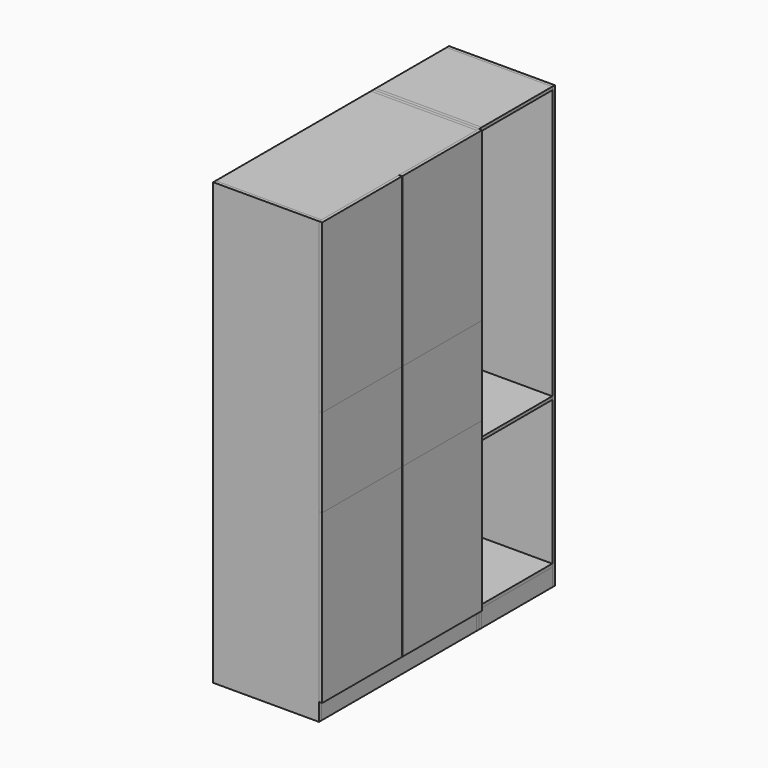
from build123d import *

# Parameters (mm, degrees)
BOX_W        = 18
BOX_H        = 1100
BOX_DEPTH    = 100
BOX001_W     = 18
BOX001_H     = 600
BOX001_DEPTH = 2500
BOX002_W     = 18
BOX002_H     = 600
BOX002_DEPTH = 2500
BOX003_W     = 600
BOX003_H     = 1100
BOX003_DEPTH = 18
BOX004_W     = 600
BOX004_H     = 1100
BOX004_DEPTH = 18
BOX007_W     = 590
BOX007_H     = 1100
BOX007_DEPTH = 18
BOX008_W     = 590
BOX008_H     = 1100
BOX008_DEPTH = 18
BOX009_W     = 600
BOX009_H     = 18
BOX009_DEPTH = 818
BOX010_W     = 600
BOX010_H     = 402
BOX010_DEPTH = 18
BOX011_W     = 600
BOX011_H     = 402
BOX011_DEPTH = 18
BOX012_W     = 18
BOX012_H     = 600
BOX012_DEPTH = 2500
BOX013_W     = 18
BOX013_H     = 600
BOX013_DEPTH = 2500
BOX014_W     = 18
BOX014_H     = 500
BOX014_DEPTH = 100
BOX015_W     = 600
BOX015_H     = 500
BOX015_DEPTH = 18
BOX016_W     = 600
BOX016_H     = 500
BOX016_DEPTH = 18
BOX017_W     = 600
BOX017_H     = 500
BOX017_DEPTH = 18
BOX018_W     = 18
BOX018_H     = 566
BOX018_DEPTH = 950
BOX019_W     = 18
BOX019_H     = 566
BOX019_DEPTH = 950
BOX020_W     = 18
BOX020_H     = 566
BOX020_DEPTH = 500
BOX021_W     = 18
BOX021_H     = 566
BOX021_DEPTH = 950
BOX022_W     = 18
BOX022_H     = 566
BOX022_DEPTH = 500
BOX023_W     = 18
BOX023_H     = 566
BOX023_DEPTH = 950


with BuildPart() as obj1:
    # Box → Box (new body)
    with BuildSketch(Plane.XY):
        with Locations((9, 550)):
            Rectangle(BOX_W, BOX_H)
    extrude(amount=BOX_DEPTH)


with BuildPart() as box001:
    # Box001 → Box001 (new body)
    with BuildSketch(Plane(origin=(18, -18, 0), x_dir=(0, 1, 0), z_dir=(0, 0, 1))):
        with Locations((9, 300)):
            Rectangle(BOX001_W, BOX001_H)
    extrude(amount=BOX001_DEPTH)


with BuildPart() as box002:
    # Box002 → Box002 (new body)
    with BuildSketch(Plane(origin=(18, 1100, 0), x_dir=(0, 1, 0), z_dir=(0, 0, 1))):
        with Locations((9, 300)):
            Rectangle(BOX002_W, BOX002_H)
    extrude(amount=BOX002_DEPTH)


with BuildPart() as obj2:
    # Box003 → Box003 (new body)
    with BuildSketch(Plane(origin=(-582, 0, 100), x_dir=(1, 0, 0), z_dir=(0, 0, 1))):
        with Locations((300, 550)):
            Rectangle(BOX003_W, BOX003_H)
    extrude(amount=BOX003_DEPTH)


with BuildPart() as obj3:
    # Box004 → Box004 (new body)
    with BuildSketch(Plane(origin=(-582, 0, 2482), x_dir=(1, 0, 0), z_dir=(0, 0, 1))):
        with Locations((300, 550)):
            Rectangle(BOX004_W, BOX004_H)
    extrude(amount=BOX004_DEPTH)


with BuildPart() as obj4:
    # Box007 → Box007 (new body)
    with BuildSketch(Plane(origin=(-582, 0, 1532), x_dir=(1, 0, 0), z_dir=(0, 0, 1))):
        with Locations((295, 550)):
            Rectangle(BOX007_W, BOX007_H)
    extrude(amount=BOX007_DEPTH)


with BuildPart() as obj5:
    # Box008 → Box008 (new body)
    with BuildSketch(Plane(origin=(-582, 0, 936), x_dir=(1, 0, 0), z_dir=(0, 0, 1))):
        with Locations((295, 550)):
            Rectangle(BOX008_W, BOX008_H)
    extrude(amount=BOX008_DEPTH)


with BuildPart() as obj6:
    # Box009 → Box009 (new body)
    with BuildSketch(Plane(origin=(-582, 680, 118), x_dir=(1, 0, 0), z_dir=(0, 0, 1))):
        with Locations((300, 9)):
            Rectangle(BOX009_W, BOX009_H)
    extrude(amount=BOX009_DEPTH)


with BuildPart() as box010:
    # Box010 → Box010 (new body)
    with BuildSketch(Plane(origin=(-582, 698, 372.666667), x_dir=(1, 0, 0), z_dir=(0, 0, 1))):
        with Locations((300, 201)):
            Rectangle(BOX010_W, BOX010_H)
    extrude(amount=BOX010_DEPTH)


with BuildPart() as box011:
    # Box011 → Box011 (new body)
    with BuildSketch(Plane(origin=(-582, 698, 645.333333), x_dir=(1, 0, 0), z_dir=(0, 0, 1))):
        with Locations((300, 201)):
            Rectangle(BOX011_W, BOX011_H)
    extrude(amount=BOX011_DEPTH)


with BuildPart() as box012:
    # Box012 → Box012 (new body)
    with BuildSketch(Plane(origin=(18, 1636, 0), x_dir=(0, 1, 0), z_dir=(0, 0, 1))):
        with Locations((9, 300)):
            Rectangle(BOX012_W, BOX012_H)
    extrude(amount=BOX012_DEPTH)


with BuildPart() as box013:
    # Box013 → Box013 (new body)
    with BuildSketch(Plane(origin=(18, 1118, 0), x_dir=(0, 1, 0), z_dir=(0, 0, 1))):
        with Locations((9, 300)):
            Rectangle(BOX013_W, BOX013_H)
    extrude(amount=BOX013_DEPTH)


with BuildPart() as obj7:
    # Box014 → Box014 (new body)
    with BuildSketch(Plane(origin=(0, 1136, 0), x_dir=(1, 0, 0), z_dir=(0, 0, 1))):
        with Locations((9, 250)):
            Rectangle(BOX014_W, BOX014_H)
    extrude(amount=BOX014_DEPTH)


with BuildPart() as obj8:
    # Box015 → Box015 (new body)
    with BuildSketch(Plane(origin=(-582, 1136, 100), x_dir=(1, 0, 0), z_dir=(0, 0, 1))):
        with Locations((300, 250)):
            Rectangle(BOX015_W, BOX015_H)
    extrude(amount=BOX015_DEPTH)


with BuildPart() as obj9:
    # Box016 → Box016 (new body)
    with BuildSketch(Plane(origin=(-582, 1136, 2482), x_dir=(1, 0, 0), z_dir=(0, 0, 1))):
        with Locations((300, 250)):
            Rectangle(BOX016_W, BOX016_H)
    extrude(amount=BOX016_DEPTH)


with BuildPart() as obj10:
    # Box017 → Box017 (new body)
    with BuildSketch(Plane(origin=(-582, 1136, 936), x_dir=(1, 0, 0), z_dir=(0, 0, 1))):
        with Locations((300, 250)):
            Rectangle(BOX017_W, BOX017_H)
    extrude(amount=BOX017_DEPTH)


with BuildPart() as obj11:
    # Box018 → Box018 (new body)
    with BuildSketch(Plane(origin=(18, -18, 100), x_dir=(1, 0, 0), z_dir=(0, 0, 1))):
        with Locations((9, 283)):
            Rectangle(BOX018_W, BOX018_H)
    extrude(amount=BOX018_DEPTH)


with BuildPart() as obj12:
    # Box019 → Box019 (new body)
    with BuildSketch(Plane(origin=(18, -18, 1550), x_dir=(1, 0, 0), z_dir=(0, 0, 1))):
        with Locations((9, 283)):
            Rectangle(BOX019_W, BOX019_H)
    extrude(amount=BOX019_DEPTH)


with BuildPart() as obj13:
    # Box020 → Box020 (new body)
    with BuildSketch(Plane(origin=(18, -18, 1050), x_dir=(1, 0, 0), z_dir=(0, 0, 1))):
        with Locations((9, 283)):
            Rectangle(BOX020_W, BOX020_H)
    extrude(amount=BOX020_DEPTH)


with BuildPart() as obj14:
    # Box021 → Box021 (new body)
    with BuildSketch(Plane(origin=(18, 550, 100), x_dir=(1, 0, 0), z_dir=(0, 0, 1))):
        with Locations((9, 283)):
            Rectangle(BOX021_W, BOX021_H)
    extrude(amount=BOX021_DEPTH)


with BuildPart() as obj15:
    # Box022 → Box022 (new body)
    with BuildSketch(Plane(origin=(18, 550, 1050), x_dir=(1, 0, 0), z_dir=(0, 0, 1))):
        with Locations((9, 283)):
            Rectangle(BOX022_W, BOX022_H)
    extrude(amount=BOX022_DEPTH)


with BuildPart() as obj16:
    # Box023 → Box023 (new body)
    with BuildSketch(Plane(origin=(18, 550, 1550), x_dir=(1, 0, 0), z_dir=(0, 0, 1))):
        with Locations((9, 283)):
            Rectangle(BOX023_W, BOX023_H)
    extrude(amount=BOX023_DEPTH)


solid = Compound([obj1.part, box001.part, box002.part, obj2.part, obj3.part, obj4.part, obj5.part, obj6.part, box010.part, box011.part, box012.part, box013.part, obj7.part, obj8.part, obj9.part, obj10.part, obj11.part, obj12.part, obj13.part, obj14.part, obj15.part, obj16.part])
